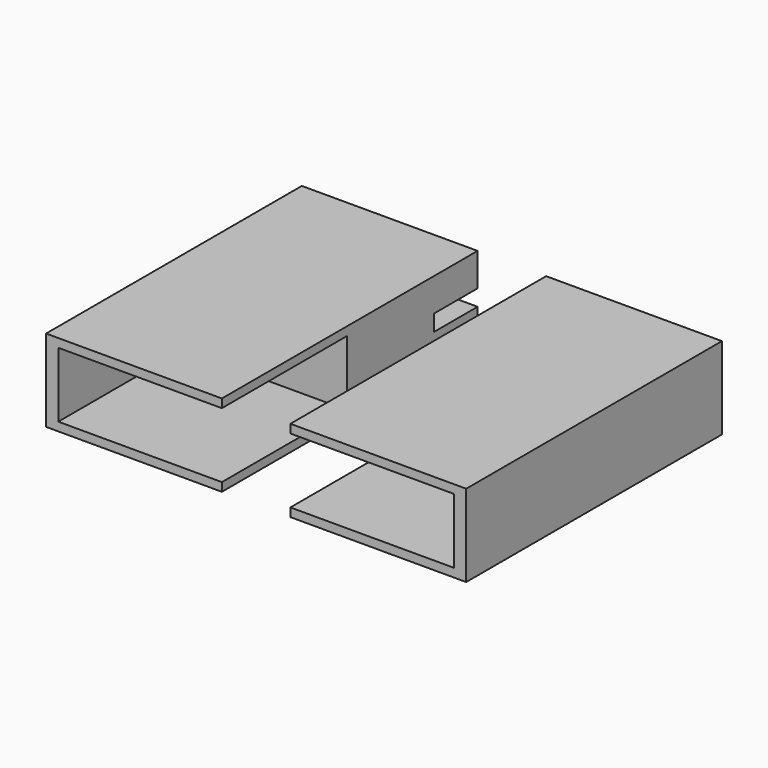
from build123d import *

# Parameters (mm, degrees)
F0_W      = 92
F0_H      = 18
F0_W_2    = 86.65
F0_H_2    = 14.25
F1_DEPTH  = 70
F2_DEPTH  = 35.8
F4_W      = 13.3
F4_H      = 8.6
F5_DEPTH  = 22
F3_R      = 2
F6_DEPTH  = 8
F8_W      = 10.7813365757
F8_H      = 6.4464779571
F8_R      = 3.2
F9_DEPTH  = 9.9
F10_W     = 15
F10_H     = 70
F11_DEPTH = 24.4
F13_W     = 7.4110888749
F13_H     = 3.55
F13_W_2   = 42.2
F13_W_3   = 1.7889111251
F14_DEPTH = 12
F15_DEPTH = 15.3
F17_DEPTH = 16.6


with BuildPart() as f1:
    # F0 (on Front) → F1 (new body)
    with BuildSketch(Plane.XZ):
        Rectangle(F0_W, F0_H)
        Rectangle(F0_W_2, F0_H_2, mode=Mode.SUBTRACT)
    extrude(amount=F1_DEPTH)

    # F0 (on Front) → F2 (join)
    with BuildSketch(Plane.XZ):
        Rectangle(F0_W_2, F0_H_2)
    extrude(amount=F2_DEPTH)

    # F4 (on face) → F5 (cut)
    with BuildSketch(Plane.XZ.offset(35.8)):
        Rectangle(F4_W, F4_H)
    extrude(amount=-F5_DEPTH, mode=Mode.SUBTRACT)

    # F3 (on Front) → F6 (cut)
    with BuildSketch(Plane.XZ):
        Circle(F3_R)
    extrude(amount=F6_DEPTH, mode=Mode.SUBTRACT)

    # F8 (on face) → F9 (cut)
    with BuildSketch(Plane.XZ.offset(13.8)):
        with Locations((0, -0.695)):
            Rectangle(F8_W, F8_H)
        with Locations((0, -0.695)):
            Circle(F8_R, mode=Mode.SUBTRACT)
        with Locations((0, -0.695)):
            Circle(F8_R)
    extrude(amount=-F9_DEPTH, mode=Mode.SUBTRACT)

    # F10 (on face) → F11 (cut)
    with BuildSketch(Plane(origin=(0, 0, -9), x_dir=(1, 0, 0), z_dir=(0, 0, -1))):
        with Locations((0, 35)):
            Rectangle(F10_W, F10_H)
    extrude(amount=-F11_DEPTH, mode=Mode.SUBTRACT)

    # F13 (on face) → F14 (cut)
    with BuildSketch(Plane.XZ):
        with Locations((26.2944555625, 0)):
            Rectangle(F13_W, F13_H)
        with Locations((-1.3110888749, 0)):
            Rectangle(F13_W_2, F13_H)
        with Locations((-26.1055444375, 0)):
            Rectangle(F13_W_3, F13_H)
    extrude(amount=F14_DEPTH, mode=Mode.SUBTRACT)

    # F13 (on face) → F15 (cut)
    with BuildSketch(Plane.XZ):
        Polygon((19.7889111251, 1.775), (19.7889111251, -1.775), (19.7889111251, -3.99), (22.5889111251, -3.99), (22.5889111251, -1.775), (22.5889111251, 1.775), (22.5889111251, 3.99), (19.7889111251, 3.99), align=None)
        Polygon((-25.2110888749, 1.775), (-25.2110888749, -1.775), (-25.2110888749, -3.99), (-22.4110888749, -3.99), (-22.4110888749, -1.775), (-22.4110888749, 1.775), (-22.4110888749, 3.99), (-25.2110888749, 3.99), align=None)
        Polygon((-27, -3.5), (-27, -1.775), (-27, 1.775), (-27, 3.5), (-30, 3.5), (-30, 1.775), (-30, -1.775), (-30, -3.5), align=None)
    extrude(amount=F15_DEPTH, mode=Mode.SUBTRACT)

    # F16 (on face) → F17 (cut)
    with BuildSketch(Plane(origin=(-46, 0, 0), x_dir=(0, -1, 0), z_dir=(-1, 0, 0))):
        with BuildLine():
            ThreePointArc((12.675, 0), (10.3, 2.375), (7.925, 0))
            ThreePointArc((7.925, 0), (10.3, -2.375), (12.675, 0))
        make_face()
    extrude(amount=-F17_DEPTH, mode=Mode.SUBTRACT)


solid = f1.part
